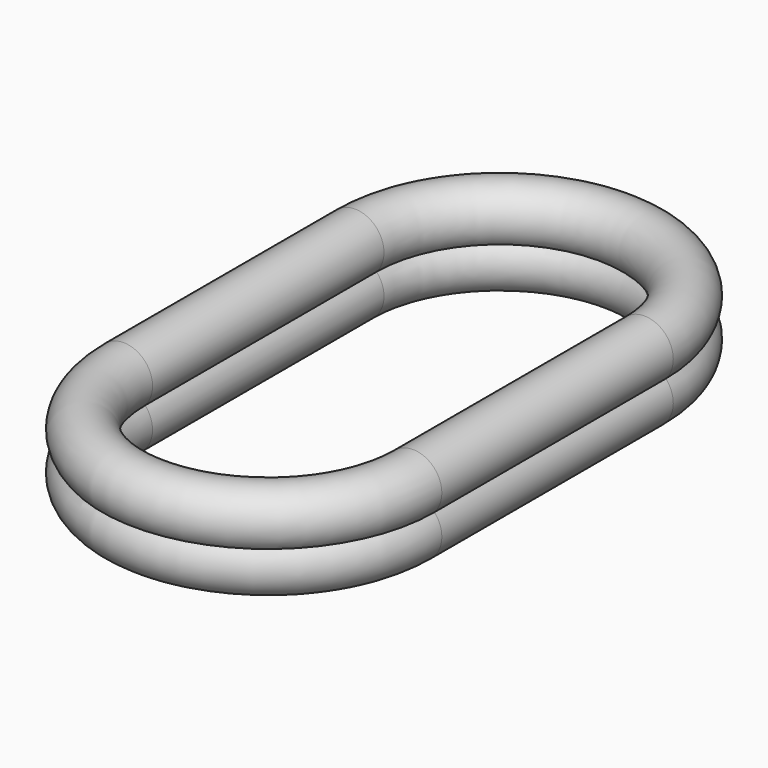
from build123d import *


with BuildPart() as f2:
    # F2: sweep along a path in F1
    with BuildLine(Plane.XY) as f2_path:
        Line((-60, -60), (-60, 60))
        ThreePointArc((-60, 60), (0, 120), (60, 60))
        Line((60, 60), (60, -60))
        ThreePointArc((60, -60), (0, -120), (-60, -60))
    # F0 (on Front) → F2 (sweep)
    with BuildSketch(Plane.XZ):
        with BuildLine():
            ThreePointArc((-51.055728, 0), (-60, 20), (-68.944272, 0))
            ThreePointArc((-68.944272, 0), (-60, -20), (-51.055728, 0))
        make_face()
    sweep(path=f2_path.line)


solid = f2.part
